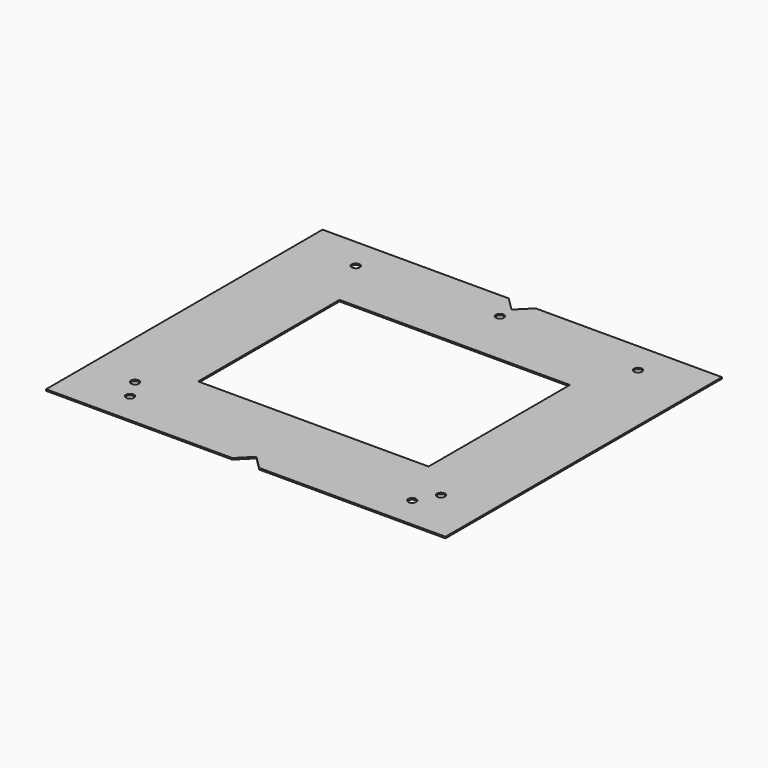
from build123d import *

# Parameters (mm, degrees)
F0_W     = 660.4
F0_H     = 571.5
F0_R     = 6.746875
F1_DEPTH = 2.3876
F3_DEPTH = 2.3886
F4_W     = 381
F4_H     = 292.1
F5_DEPTH = 2.3886


with BuildPart() as f1:
    # F0 (on Top) → F1 (new body)
    with BuildSketch(Plane.XY):
        Rectangle(F0_W, F0_H)
        with Locations((-233.3625, -233.3625)):
            Circle(F0_R, mode=Mode.SUBTRACT)
        with Locations((-252.96602, -198.4248)):
            Circle(F0_R, mode=Mode.SUBTRACT)
        with Locations((233.3625, -233.3625)):
            Circle(F0_R, mode=Mode.SUBTRACT)
        with Locations((252.96602, -198.4248)):
            Circle(F0_R, mode=Mode.SUBTRACT)
        with Locations((-233.3625, 233.3625)):
            Circle(F0_R, mode=Mode.SUBTRACT)
        with Locations((0, 239.7252)):
            Circle(F0_R, mode=Mode.SUBTRACT)
        with Locations((233.3625, 233.3625)):
            Circle(F0_R, mode=Mode.SUBTRACT)
    extrude(amount=-F1_DEPTH)

    # F2 (on Top) → F3 (cut, through all)
    with BuildSketch(Plane.XY):
        Polygon((22.225, 285.75), (-22.225, 285.75), (0, 263.525), align=None)
        Polygon((-22.225, -285.75), (22.225, -285.75), (0, -263.525), align=None)
    extrude(amount=-F3_DEPTH, mode=Mode.SUBTRACT)

    # F4 (on Top) → F5 (cut, through all)
    with BuildSketch(Plane.XY):
        Rectangle(F4_W, F4_H)
    extrude(amount=-F5_DEPTH, mode=Mode.SUBTRACT)


solid = f1.part
